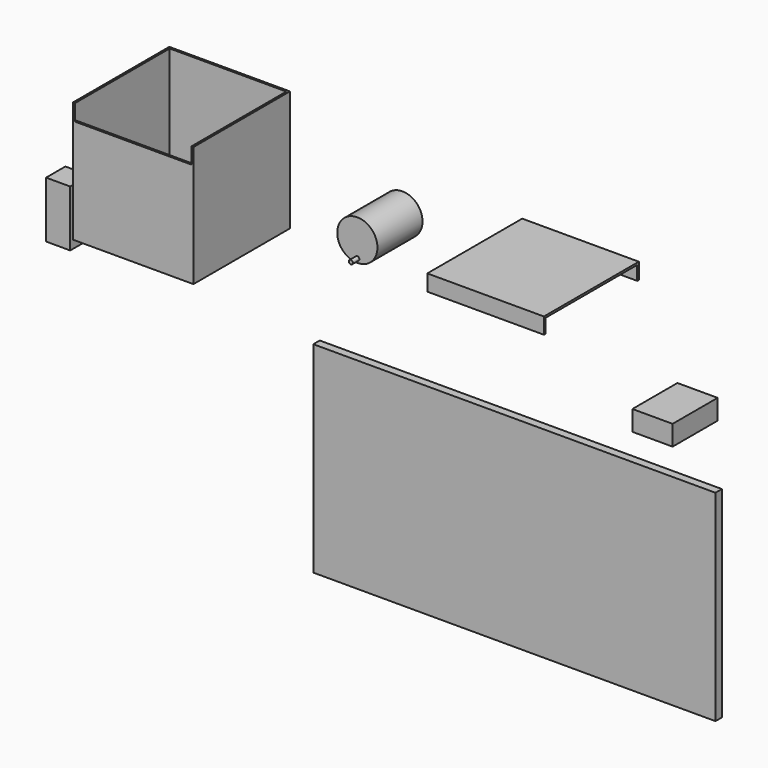
from build123d import *

# Parameters (mm, degrees)
F0_W      = 500
F0_H      = 250
F2_DEPTH  = 10
F1_W      = 30
F1_H      = 70
F3_DEPTH  = 30
F4_W      = 150
F4_H      = 150
F5_DEPTH  = 150
F6_T      = -2.5
F8_DEPTH  = 100
F9_R      = 25
F10_DEPTH = 70
F11_R     = 2.5
F12_DEPTH = 10
F13_W     = 145
F13_H     = 20
F14_DEPTH = 147.5
F15_T     = -2.5
F16_R     = 3.5
F17_DEPTH = 20
F18_W     = 50
F18_H     = 25
F19_DEPTH = 70


with BuildPart() as f2:
    # F0 (on Front) → F2 (new body)
    with BuildSketch(Plane.XZ):
        with Locations((250, -125)):
            Rectangle(F0_W, F0_H)
    extrude(amount=F2_DEPTH)


with BuildPart() as f3:
    # F1 (on Front) → F3 (new body)
    with BuildSketch(Plane.XZ):
        with Locations((-301.243767, 52.618936)):
            Rectangle(F1_W, F1_H)
    extrude(amount=F3_DEPTH)


with BuildPart() as f5:
    # F4 (on Front) → F5 (new body)
    with BuildSketch(Plane.XZ):
        with Locations((-112.076306, 185.574)):
            Rectangle(F4_W, F4_H)
    extrude(amount=F5_DEPTH)

    # F6
    f6_openings = [f5.faces().sort_by_distance(p)[0] for p in [
        (-112.076306, -75, 260.574),
    ]]
    offset(amount=F6_T, openings=f6_openings)

    # F7 (on face) → F8 (cut)
    with BuildSketch(Plane.XZ.offset(150)):
        Polygon((-39.576306, 260.574), (-112.076306, 260.574), (-184.576306, 260.574), (-184.576306, 240.574), (-39.576306, 240.574), align=None)
    extrude(amount=-F8_DEPTH, mode=Mode.SUBTRACT)


with BuildPart() as f10:
    # F9 (on Front) → F10 (new body)
    with BuildSketch(Plane.XZ):
        with Locations((102.752738, 171.720177)):
            Circle(F9_R)
    extrude(amount=F10_DEPTH)

    # F11 (on face) → F12 (join)
    with BuildSketch(Plane.XZ.offset(70)):
        with Locations((102.752738, 151.720177)):
            Circle(F11_R)
    extrude(amount=F12_DEPTH)


with BuildPart() as f14:
    # F13 (on Front) → F14 (new body)
    with BuildSketch(Plane.XZ):
        with Locations((324.193468, 205.238978)):
            Rectangle(F13_W, F13_H)
    extrude(amount=F14_DEPTH)

    # F15
    f15_openings = [f14.faces().sort_by_distance(p)[0] for p in [
        (396.693468, -73.75, 205.238978),
        (251.693468, -73.75, 205.238978),
        (324.193468, -73.75, 195.238978),
    ]]
    offset(amount=F15_T, openings=f15_openings)


with BuildPart() as f17:
    # F16 (on Front) → F17 (new body)
    with BuildSketch(Plane.XZ):
        with Locations((181.62334, 140.379891)):
            Circle(F16_R)
    extrude(amount=F17_DEPTH)


with BuildPart() as f19:
    # F18 (on Front) → F19 (new body)
    with BuildSketch(Plane.XZ):
        with Locations((469.686425, 85.599427)):
            Rectangle(F18_W, F18_H)
    extrude(amount=F19_DEPTH)


solid = Compound([f2.part, f3.part, f5.part, f10.part, f14.part, f17.part, f19.part])
